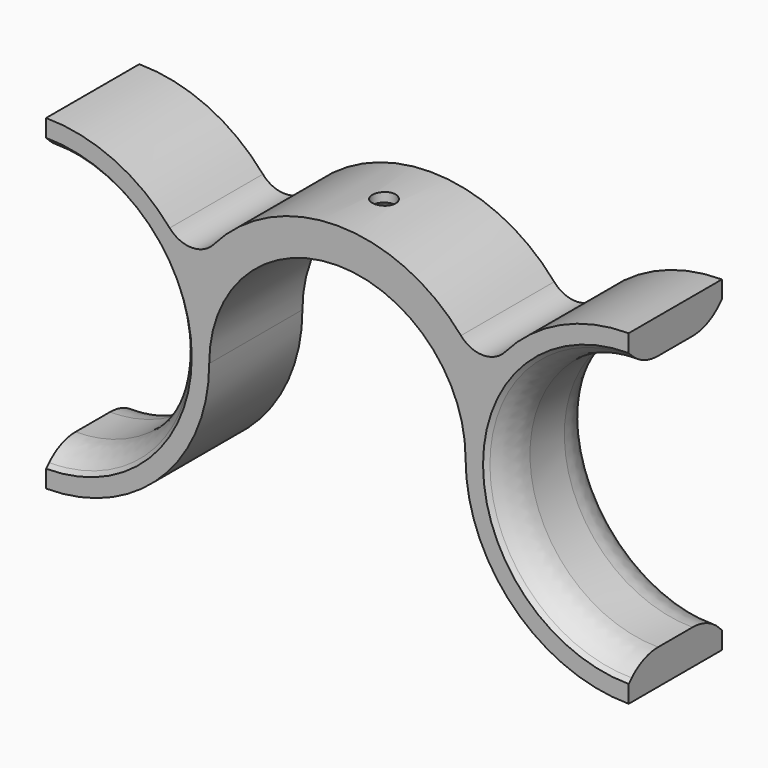
from build123d import *

# Parameters (mm, degrees)
F1_DEPTH = 10
F4_SIZE  = 3
F5_R     = 8
F6_R     = 5


with BuildPart() as f1:
    # F0 (on Front) → F1 (new body, symmetric)
    with BuildSketch(Plane.XZ):
        with BuildLine():
            ThreePointArc((-50, 22), (-28, 0), (-50, -22))
            Line((-50, -22), (-50, -28))
            ThreePointArc((-50, -28), (-42.7848180337, -27.0544109009), (-36.0569644542, -24.2815106566))
            ThreePointArc((-36.0569644542, -24.2815106566), (-25.7677384951, -14.0284533131), (-22, 0))
            ThreePointArc((-22, 0), (0, 22), (22, 0))
            ThreePointArc((22, 0), (25.7677384951, -14.0284533131), (36.0569644542, -24.2815106566))
            ThreePointArc((36.0569644542, -24.2815106566), (42.7848180337, -27.0544109009), (50, -28))
            Line((50, -28), (50, -22))
            ThreePointArc((50, -22), (28, 0), (50, 22))
            Line((50, 22), (50, 28))
            ThreePointArc((50, 28), (35.3212154107, 23.8439359792), (25, 12.6095202129))
            ThreePointArc((25, 12.6095202129), (0, 28), (-25, 12.6095202129))
            ThreePointArc((-25, 12.6095202129), (-35.3212154107, 23.8439359792), (-50, 28))
            Line((-50, 28), (-50, 22))
        make_face()
    extrude(amount=F1_DEPTH, both=True)

    # F2 (on Front) → F3 (revolve, cut)
    with BuildSketch(Plane.XZ):
        Polygon((0, 31.6328920043), (-2, 31.6328920043), (-2, 26.3877877519), (-8.5819354281, 19.8058523238), (0, 19.8058523238), align=None)
    revolve(axis=Axis((0, 0, 16.2401215483), (0, 0, 1)), mode=Mode.SUBTRACT)

    # F4
    f4_edges = [f1.edges().sort_by_distance(p)[0] for p in [
        (-28, 10, 0),
        (-28, -10, 0),
        (28, 10, 0),
        (28, -10, 0),
    ]]
    chamfer(f4_edges, length=F4_SIZE)

    # F5
    f5_edges = [f1.edges().sort_by_distance(p)[0] for p in [
        (-28, 7, 0),
        (-28, -7, 0),
        (28, 7, 0),
        (28, -7, 0),
    ]]
    fillet(f5_edges, radius=F5_R)

    # F6
    f6_edges = [f1.edges().sort_by_distance(p)[0] for p in [
        (25, 0, 12.60952),
        (-25, 0, 12.60952),
    ]]
    fillet(f6_edges, radius=F6_R)


solid = f1.part
